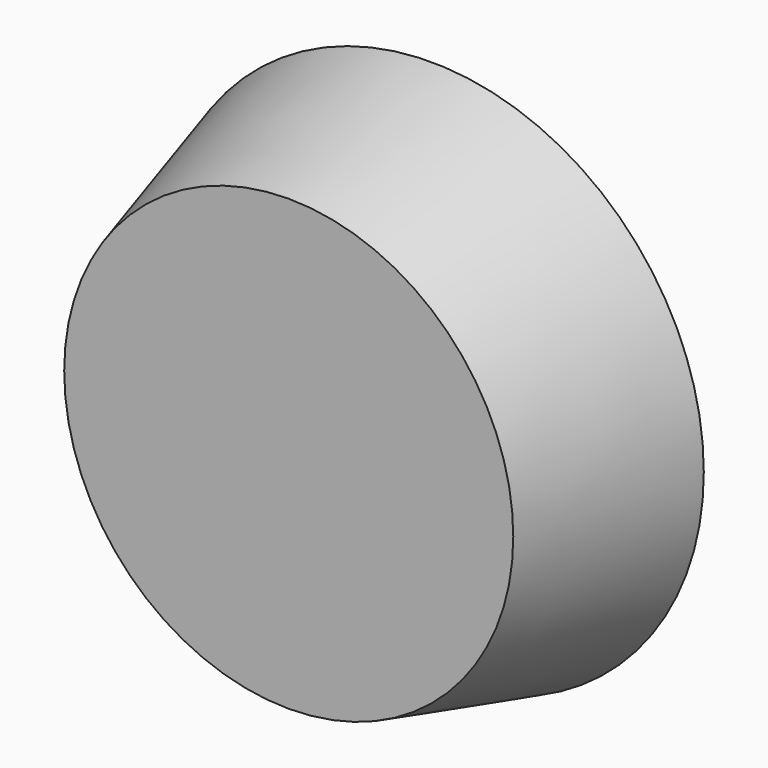
from build123d import *

# Parameters (mm, degrees)
F0_R     = 31.9671957616
F1_DEPTH = 25.4
F1_TAPER = -15


with BuildPart() as f1:
    # F0 (on Front) → F1 (new body)
    with BuildSketch(Plane.XZ):
        Circle(F0_R)
    extrude(amount=-F1_DEPTH, taper=F1_TAPER)


solid = f1.part
